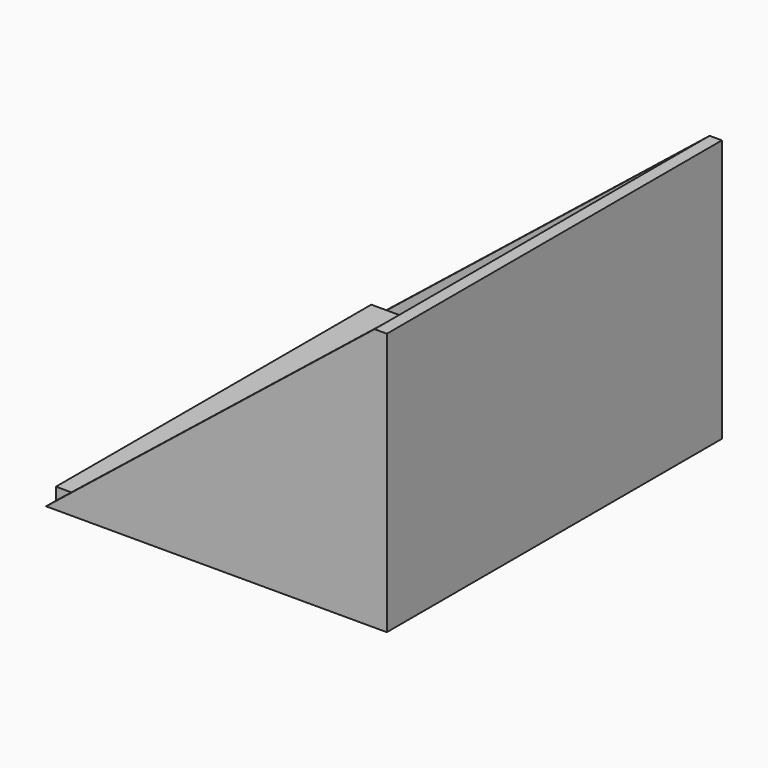
from build123d import *

# Parameters (mm, degrees)
F0_W     = 508
F0_H     = 609.6
F1_DEPTH = 19.05
F3_DEPTH = 19.05
F5_DEPTH = 19.05
F6_W     = 609.6
F6_H     = 387.35
F7_DEPTH = 19.05


with BuildPart() as f1:
    # F0 (on Top) → F1 (new body)
    with BuildSketch(Plane.XY):
        Rectangle(F0_W, F0_H)
    extrude(amount=F1_DEPTH)

    # F2 (on face) → F3 (join)
    with BuildSketch(Plane.XZ.offset(304.8)):
        Polygon((-230.1875, 19.05), (254, 19.05), (254, 406.4), align=None)
        Polygon((-254, 0), (254, 0), (254, 19.05), (-230.1875, 19.05), align=None)
    extrude(amount=F3_DEPTH)

    # F4 (on face) → F5 (join)
    with BuildSketch(Plane(origin=(0, 304.8, 0), x_dir=(-1, 0, 0), z_dir=(0, 1, 0))):
        Polygon((-254, 406.4), (-254, 19.05), (230.1875, 19.05), align=None)
        Polygon((-254, 19.05), (-254, 0), (254, 0), (230.1875, 19.05), align=None)
    extrude(amount=F5_DEPTH)

    # F6 (on face) → F7 (join)
    with BuildSketch(Plane.YZ.offset(254)):
        with Locations((0, 212.725)):
            Rectangle(F6_W, F6_H)
        Polygon((-323.85, 0), (323.85, 0), (323.85, 406.4), (304.8, 406.4), (304.8, 19.05), (-304.8, 19.05), (-304.8, 406.4), (-323.85, 406.4), align=None)
    extrude(amount=F7_DEPTH)


solid = f1.part
